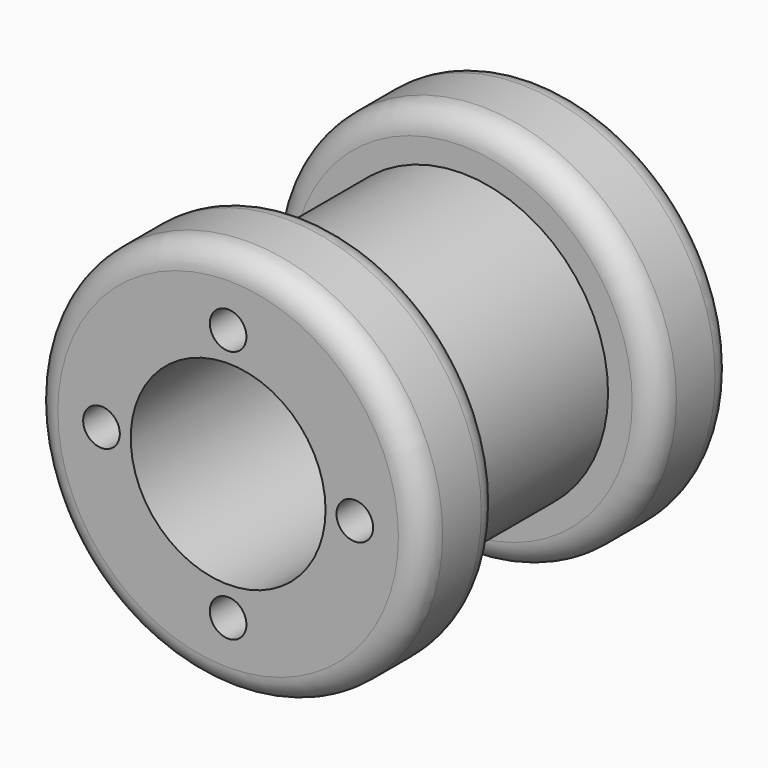
from build123d import *

# Parameters (mm, degrees)
F0_R      = 12.7
F1_DEPTH  = 6.35
F2_R      = 9.525
F3_DEPTH  = 12.7
F4_R      = 12.7
F5_DEPTH  = 6.35
F7_D      = 2.3876
F7_DEPTH  = 3.175
F7_TIP    = 0.717307407
F8_R      = 1.6002
F9_R      = 6.35
F10_DEPTH = 25.401


with BuildPart() as f1:
    # F0 (on Front) → F1 (new body)
    with BuildSketch(Plane.XZ):
        Circle(F0_R)
    extrude(amount=F1_DEPTH)

    # F2 (on face) → F3 (join)
    with BuildSketch(Plane(origin=(0, 0, 0), x_dir=(-1, 0, 0), z_dir=(0, 1, 0))):
        Circle(F2_R)
    extrude(amount=F3_DEPTH)

    # F4 (on face) → F5 (join)
    with BuildSketch(Plane(origin=(0, 12.7, 0), x_dir=(-1, 0, 0), z_dir=(0, 1, 0))):
        Circle(F4_R)
    extrude(amount=F5_DEPTH)

    # F7
    with Locations(Plane.XZ.offset(6.35)):
        with Locations((-8.255, 0), (0, -8.255), (8.255, 0), (0, 8.255)):
            Hole(F7_D / 2, depth=F7_DEPTH)
            with Locations((0, 0, -(F7_DEPTH + F7_TIP / 2))):  # 118° drill point
                Cone(0, F7_D / 2, F7_TIP, mode=Mode.SUBTRACT)

    # F8
    f8_edges = [f1.edges().sort_by_distance(p)[0] for p in [
        (-12.7, -6.35, 0),
        (-12.7, 0, 0),
        (12.7, 19.05, 0),
        (12.7, 12.7, 0),
    ]]
    fillet(f8_edges, radius=F8_R)

    # F9 (on face) → F10 (cut, through all)
    with BuildSketch(Plane.XZ.offset(6.35)):
        Circle(F9_R)
    extrude(amount=-F10_DEPTH, mode=Mode.SUBTRACT)


solid = f1.part
